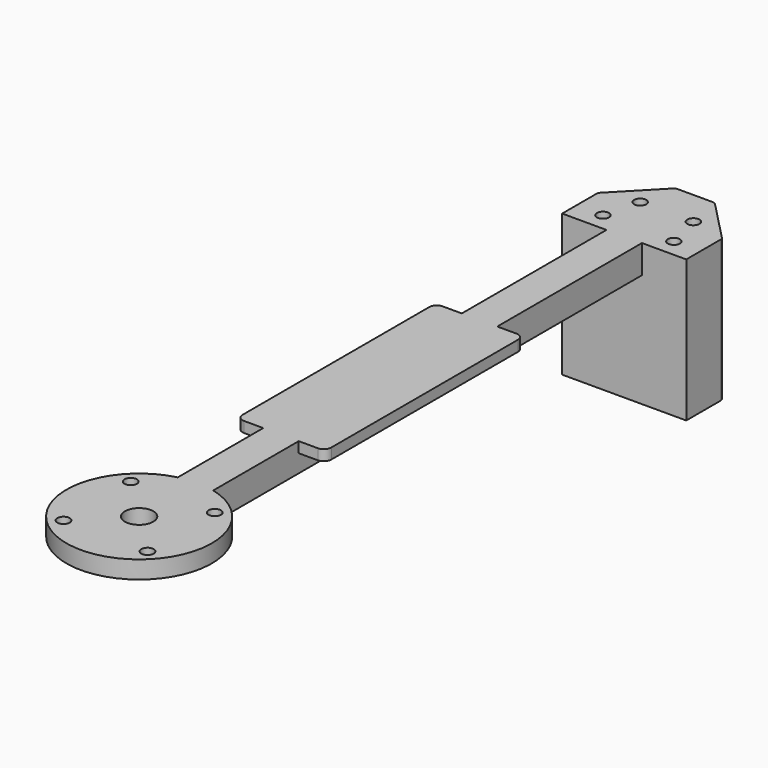
from build123d import *

# Parameters (mm, degrees)
SKETCH_W      = 10
SKETCH_H      = 171
PAD_DEPTH     = 8
SKETCH001_R   = 20.5
PAD001_DEPTH  = 5
PAD002_DEPTH  = 40
SKETCH004_R   = 1.7
HOLE_DEPTH    = 40.001
PAD003_DEPTH  = 3
SKETCH006_R   = 1.75
SKETCH006_R_2 = 4
POCKET_DEPTH  = 40.001


with BuildPart() as part:
    # Sketch → Pad (new body)
    with BuildSketch(Plane.XY):
        with Locations((67.5, 135.5)):
            Rectangle(SKETCH_W, SKETCH_H)
    extrude(amount=-PAD_DEPTH)

    # Sketch001 → Pad001 (join)
    with BuildSketch(Plane.XY):
        with Locations((67.5, 50)):
            Circle(SKETCH001_R)
    extrude(amount=-PAD001_DEPTH)

    # Sketch003 → Pad002 (join)
    with BuildSketch(Plane.XY):
        with BuildLine():
            Line((50, 221), (85, 221))
            Line((85, 221), (85, 233.13051))
            ThreePointArc((85, 233.13051), (84.908676, 233.599521), (84.648047, 234))
            Line((84.648047, 234), (73.398047, 245.61949))
            ThreePointArc((73.398047, 245.61949), (72.987667, 245.900948), (72.5, 246))
            Line((72.5, 246), (62.5, 246))
            ThreePointArc((62.5, 246), (62.012333, 245.900948), (61.601953, 245.61949))
            Line((61.601953, 245.61949), (50.351953, 234))
            ThreePointArc((50.351953, 234), (50.091324, 233.599521), (50, 233.13051))
            Line((50, 233.13051), (50, 221))
        make_face()
    extrude(amount=-PAD002_DEPTH)

    # Sketch004 → Hole (cut, through all)
    with BuildSketch(Plane.XY):
        with Locations((57.5, 226)):
            Circle(SKETCH004_R)
        with Locations((77.5, 226)):
            Circle(SKETCH004_R)
        with Locations((75, 236)):
            Circle(SKETCH004_R)
        with Locations((60, 236)):
            Circle(SKETCH004_R)
    extrude(amount=-HOLE_DEPTH, mode=Mode.SUBTRACT)

    # Sketch005 → Pad003 (join)
    with BuildSketch(Plane.XY):
        with BuildLine():
            Line((55, 167.87868), (55, 102.12132))
            ThreePointArc((55, 102.12132), (55.62132, 100.62132), (57.12132, 100))
            Line((57.12132, 100), (77.87868, 100))
            ThreePointArc((77.87868, 100), (79.37868, 100.62132), (80, 102.12132))
            Line((80, 102.12132), (80, 167.87868))
            ThreePointArc((80, 167.87868), (79.37868, 169.37868), (77.87868, 170))
            Line((77.87868, 170), (57.12132, 170))
            ThreePointArc((57.12132, 170), (55.62132, 169.37868), (55, 167.87868))
        make_face()
    extrude(amount=-PAD003_DEPTH)

    # Sketch006 → Pocket (cut, through all)
    with BuildSketch(Plane.XY):
        with Locations((79.344039, 38.155961)):
            Circle(SKETCH006_R)
        with Locations((79.344039, 61.844039)):
            Circle(SKETCH006_R)
        with Locations((55.655961, 61.844039)):
            Circle(SKETCH006_R)
        with Locations((55.655961, 38.155961)):
            Circle(SKETCH006_R)
        with Locations((67.5, 50)):
            Circle(SKETCH006_R_2)
    extrude(amount=-POCKET_DEPTH, mode=Mode.SUBTRACT)


solid = part.part
